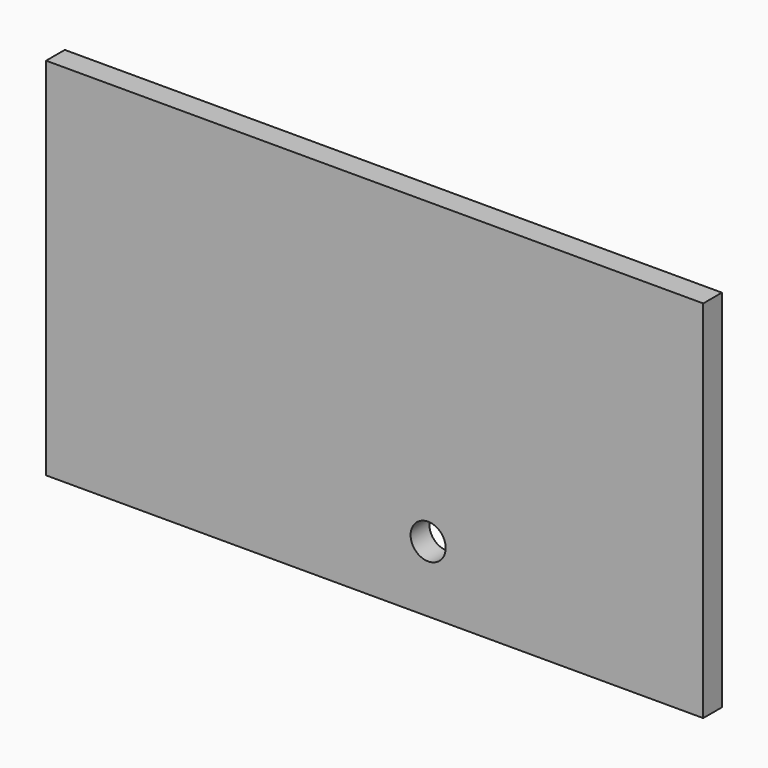
from build123d import *

# Parameters (mm, degrees)
F0_W     = 45
F0_H     = 25
F1_DEPTH = 1.6
F4_D     = 2.4


with BuildPart() as f1:
    # F0 (on Front) → F1 (new body)
    with BuildSketch(Plane.XZ):
        Rectangle(F0_W, F0_H)
    extrude(amount=-F1_DEPTH)

    # F4 (through all)
    with Locations(Plane.XZ):
        with Locations((3.6628746893, -7.9800346866)):
            Hole(F4_D / 2)


solid = f1.part
